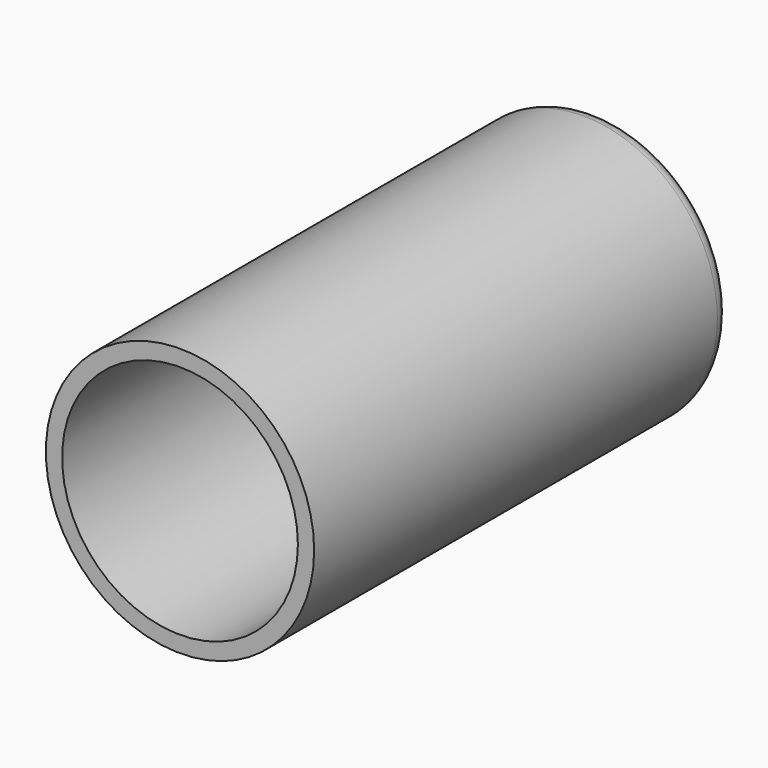
from build123d import *

# Parameters (mm, degrees)
F0_R     = 16.5
F1_DEPTH = 3
F2_R     = 16.5
F2_R_2   = 14.5
F3_DEPTH = 61
F4_R     = 2


with BuildPart() as f1:
    # F0 (on Front) → F1 (new body)
    with BuildSketch(Plane.XZ):
        Circle(F0_R)
    extrude(amount=F1_DEPTH)

    # F2 (on face) → F3 (join)
    with BuildSketch(Plane.XZ.offset(3)):
        Circle(F2_R)
        Circle(F2_R_2, mode=Mode.SUBTRACT)
    extrude(amount=F3_DEPTH)

    # F4
    f4_edges = [f1.edges().sort_by_distance(p)[0] for p in [
        (-16.5, 0, 0),
    ]]
    fillet(f4_edges, radius=F4_R)


solid = f1.part
